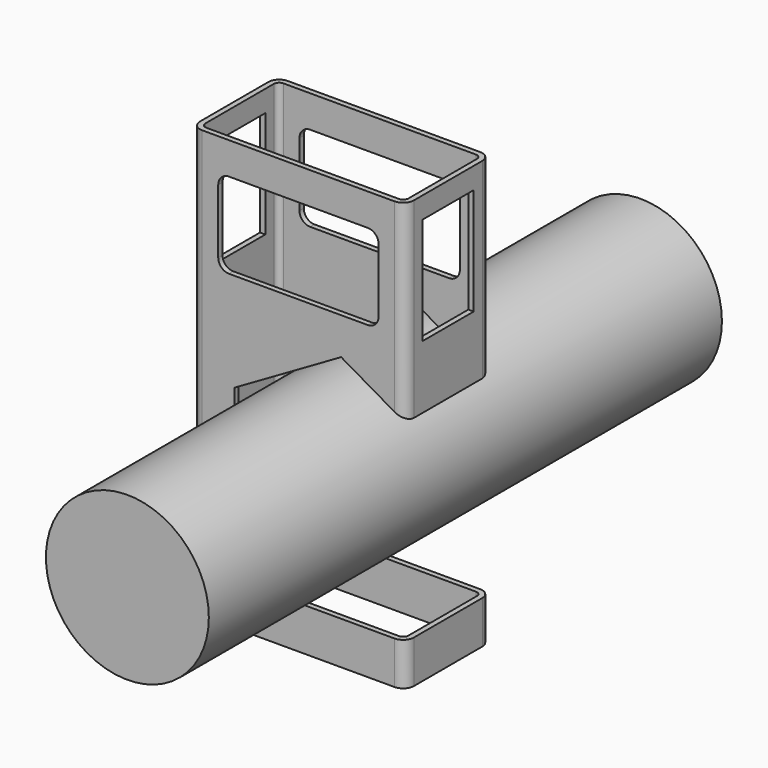
from build123d import *

# Parameters (mm, degrees)
F0_W       = 100
F0_H       = 50
F1_DEPTH   = 100
F2_R       = 5
F3_T       = -2.5
F4_W       = 30
F4_H       = 50
F5_DEPTH   = 110
F7_DEPTH   = 43.301695
F8_SIZE    = 15
F10_DEPTH  = 102.455856
F11_R      = 38.1
F12_DEPTH  = 149.993569
F12_FACE_R = 38.1
F13_DEPTH  = 40


with BuildPart() as f1:
    # F0 (on Top) → F1 (new body, symmetric)
    with BuildSketch(Plane.XY):
        Rectangle(F0_W, F0_H)
    extrude(amount=F1_DEPTH, both=True)

    # F2
    f2_edges = [f1.edges().sort_by_distance(p)[0] for p in [
        (-50, -25, 0),
        (-50, 25, 0),
        (50, -25, 0),
        (50, 25, 0),
    ]]
    fillet(f2_edges, radius=F2_R)

    # F3
    f3_openings = [f1.faces().sort_by_distance(p)[0] for p in [
        (0, 0, 100),
        (0, 0, -100),
    ]]
    offset(amount=F3_T, openings=f3_openings)

    # F4 (on Right) → F5 (cut, symmetric)
    with BuildSketch(Plane.YZ):
        with Locations((0, 65)):
            Rectangle(F4_W, F4_H)
    extrude(amount=F5_DEPTH, both=True, mode=Mode.SUBTRACT)

    # F6 (on Front) → F7 (cut, symmetric)
    with BuildSketch(Plane.XZ):
        Polygon((20, 27.735027), (-30, -1.132487), (-30, -80), (90.14177, -80), (90.14177, -12.761343), align=None)
    extrude(amount=F7_DEPTH, both=True, mode=Mode.SUBTRACT)

    # F8
    f8_edges = [f1.edges().sort_by_distance(p)[0] for p in [
        (-30, 23.75, -80),
        (-30, -23.75, -80),
    ]]
    chamfer(f8_edges, length=F8_SIZE)

    # F9 (on face) → F10 (cut)
    with BuildSketch(Plane.XZ.offset(25)):
        with BuildLine():
            ThreePointArc((37.5, 80), (36.035534, 83.535534), (32.5, 85))
            Line((32.5, 85), (-32.5, 85))
            ThreePointArc((-32.5, 85), (-36.035534, 83.535534), (-37.5, 80))
            Line((-37.5, 80), (-37.5, 50))
            ThreePointArc((-37.5, 50), (-36.035534, 46.464466), (-32.5, 45))
            Line((-32.5, 45), (32.5, 45))
            ThreePointArc((32.5, 45), (36.035534, 46.464466), (37.5, 50))
            Line((37.5, 50), (37.5, 80))
        make_face()
    extrude(amount=-F10_DEPTH, mode=Mode.SUBTRACT)


with BuildPart() as f12:
    # F11 (on face) → F12 (new body, symmetric)
    with BuildSketch(Plane.XZ):
        with Locations((20, -16.259064)):
            Circle(F11_R)
    extrude(amount=F12_DEPTH, both=True)

    # F12_face (on face) → F13 (join)
    with BuildSketch(Plane(origin=(20, -149.993569, -16.259064), x_dir=(1, 0, 0), z_dir=(0, -1, 0))):
        Circle(F12_FACE_R)
    extrude(amount=-F13_DEPTH)


solid = Compound([f1.part, f12.part])
